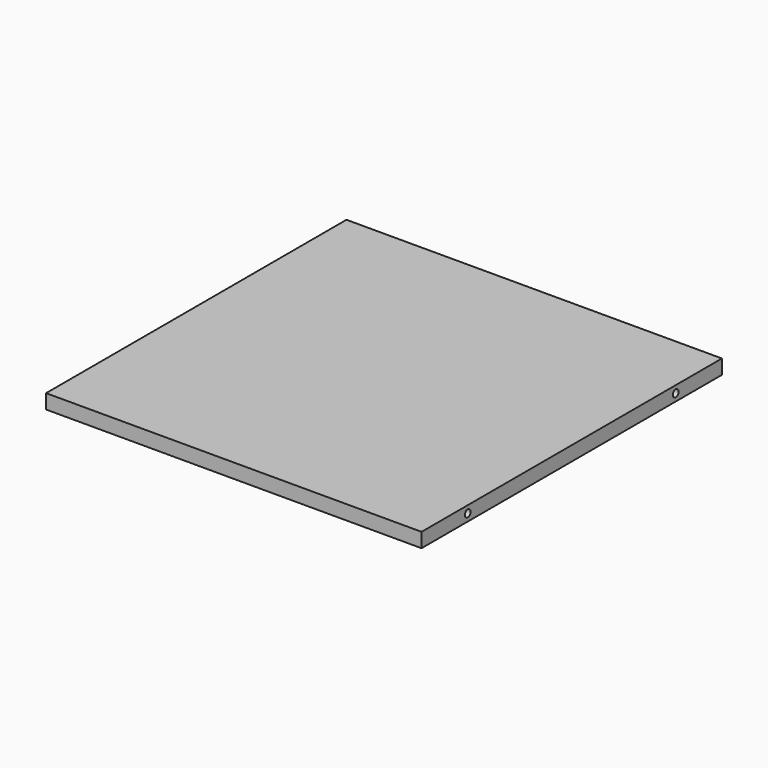
from build123d import *

# Parameters (mm, degrees)
F0_W     = 330.2
F0_H     = 12.7
F1_DEPTH = 330.2
F2_W     = 9.525
F2_H     = 38.1
F2_W_2   = 234.95
F2_H_2   = 234.95
F3_DEPTH = 3.175
F4_R     = 3.175
F5_DEPTH = 6.35
F6_R     = 3.175
F7_DEPTH = 6.35


with BuildPart() as f1:
    # F0 (on Front) → F1 (new body)
    with BuildSketch(Plane.XZ):
        with Locations((165.1, 6.35)):
            Rectangle(F0_W, F0_H)
    extrude(amount=-F1_DEPTH)

    # F2 (on face) → F3 (cut)
    with BuildSketch(Plane(origin=(0, 0, 0), x_dir=(1, 0, 0), z_dir=(0, 0, -1))):
        with Locations((287.3375, -311.15)):
            Rectangle(F2_W, F2_H)
        Polygon((282.575, -292.1), (292.1, -292.1), (292.1, -38.1), (38.1, -38.1), (38.1, -292.1), align=None)
        with Locations((165.1, -165.1)):
            Rectangle(F2_W_2, F2_H_2, mode=Mode.SUBTRACT)
    extrude(amount=-F3_DEPTH, mode=Mode.SUBTRACT)

    # F4 (on face) → F5 (cut)
    with BuildSketch(Plane(origin=(0, 0, 0), x_dir=(0, -1, 0), z_dir=(-1, 0, 0))):
        with Locations((-279.4, 6.35)):
            Circle(F4_R)
        with Locations((-50.8, 6.35)):
            Circle(F4_R)
    extrude(amount=-F5_DEPTH, mode=Mode.SUBTRACT)

    # F6 (on face) → F7 (cut)
    with BuildSketch(Plane.YZ.offset(330.2)):
        with Locations((50.8, 6.35)):
            Circle(F6_R)
        with Locations((279.4, 6.35)):
            Circle(F6_R)
    extrude(amount=-F7_DEPTH, mode=Mode.SUBTRACT)


solid = f1.part
